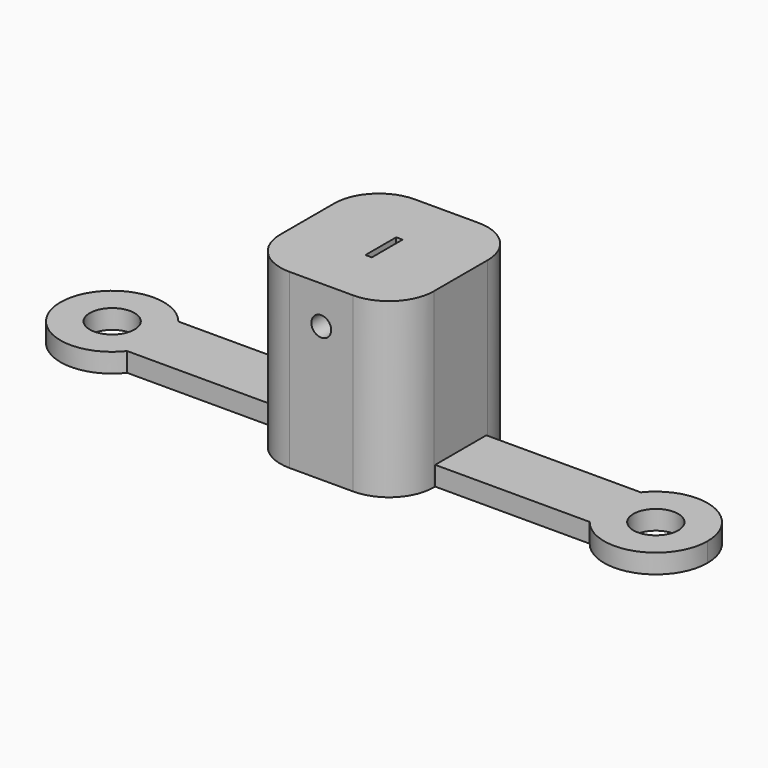
from build123d import *

# Parameters (mm, degrees)
F1_DEPTH  = 3
F3_D      = 7
F4_W      = 24
F4_H      = 24.5219291974
F5_DEPTH  = 27
F6_R      = 1.55
F7_DEPTH  = 12.5
F8_R      = 1.75
F9_DEPTH  = 12
F10_R     = 4
F11_DEPTH = 3.4
F12_R     = 7
F13_R     = 7
F14_R     = 7
F15_R     = 7
F16_W     = 1
F16_H     = 6
F17_DEPTH = 14
F18_R     = 5
F19_DEPTH = 15
F20_R     = 3
F20_R_2   = 1.55
F21_DEPTH = 3


with BuildPart() as f1:
    # F0 (on Top) → F1 (new body)
    with BuildSketch(Plane.XY):
        with BuildLine():
            Line((42.5, 5), (42.5, -5))
            Line((42.5, -5), (36.1522351233, -5))
            ThreePointArc((36.1522351233, -5), (45.1458596679, -7.635020992), (50.5804776424, 0))
            ThreePointArc((50.5804776424, 0), (45.1458596679, 7.635020992), (36.1522351233, 5))
            Line((36.1522351233, 5), (42.5, 5))
        make_face()
        with BuildLine():
            ThreePointArc((-36.1522351233, 5), (-50.5804776424, 0), (-36.1522351233, -5))
            Line((-36.1522351233, -5), (-42.5, -5))
            Line((-42.5, -5), (-42.5, 5))
            Line((-42.5, 5), (-36.1522351233, 5))
        make_face()
        with BuildLine():
            Line((36.1522351233, -5), (42.5, -5))
            Line((42.5, -5), (42.5, 5))
            Line((42.5, 5), (36.1522351233, 5))
            ThreePointArc((36.1522351233, 5), (34.4195223576, 0), (36.1522351233, -5))
        make_face()
        with BuildLine():
            Line((-36.1522351233, -5), (36.1522351233, -5))
            ThreePointArc((36.1522351233, -5), (34.4195223576, 0), (36.1522351233, 5))
            Line((36.1522351233, 5), (-36.1522351233, 5))
            ThreePointArc((-36.1522351233, 5), (-34.864979008, 2.6458596679), (-34.4195223576, 0))
            ThreePointArc((-34.4195223576, 0), (-34.864979008, -2.6458596679), (-36.1522351233, -5))
        make_face()
        with BuildLine():
            Line((-42.5, -5), (-36.1522351233, -5))
            ThreePointArc((-36.1522351233, -5), (-34.864979008, -2.6458596679), (-34.4195223576, 0))
            ThreePointArc((-34.4195223576, 0), (-34.864979008, 2.6458596679), (-36.1522351233, 5))
            Line((-36.1522351233, 5), (-42.5, 5))
            Line((-42.5, 5), (-42.5, -5))
        make_face()
    extrude(amount=F1_DEPTH)

    # F3 (through all)
    with Locations(Plane.XY.offset(3)):
        with Locations((-42.5, 0), (42.5, 0)):
            Hole(F3_D / 2)

    # F4 (on Top) → F5 (join)
    with BuildSketch(Plane.XY):
        Rectangle(F4_W, F4_H)
    extrude(amount=F5_DEPTH)

    # F6 (on Front) → F7 (cut, symmetric)
    with BuildSketch(Plane.XZ):
        with Locations((0, 21.0996698588)):
            Circle(F6_R)
    extrude(amount=F7_DEPTH, both=True, mode=Mode.SUBTRACT)

    # F8 (on face) → F9 (cut)
    with BuildSketch(Plane(origin=(-12, 0, 0), x_dir=(0, -1, 0), z_dir=(-1, 0, 0))):
        with Locations((0, 21.061129868)):
            Circle(F8_R)
    extrude(amount=-F9_DEPTH, mode=Mode.SUBTRACT)

    # F10 (on face) → F11 (cut)
    with BuildSketch(Plane(origin=(-12, 0, 0), x_dir=(0, -1, 0), z_dir=(-1, 0, 0))):
        with Locations((0, 21.061129868)):
            Circle(F10_R)
    extrude(amount=-F11_DEPTH, mode=Mode.SUBTRACT)

    # F12
    f12_edges = [f1.edges().sort_by_distance(p)[0] for p in [
        (-12, 12.260965, 13.5),
    ]]
    fillet(f12_edges, radius=F12_R)

    # F13
    f13_edges = [f1.edges().sort_by_distance(p)[0] for p in [
        (12, 12.260965, 13.5),
    ]]
    fillet(f13_edges, radius=F13_R)

    # F14
    f14_edges = [f1.edges().sort_by_distance(p)[0] for p in [
        (-12, -12.260965, 13.5),
    ]]
    fillet(f14_edges, radius=F14_R)

    # F15
    f15_edges = [f1.edges().sort_by_distance(p)[0] for p in [
        (12, -12.260965, 13.5),
    ]]
    fillet(f15_edges, radius=F15_R)

    # F16 (on face) → F17 (cut)
    with BuildSketch(Plane.XY.offset(27)):
        Rectangle(F16_W, F16_H)
    extrude(amount=-F17_DEPTH, mode=Mode.SUBTRACT)

    # F18 (on face) → F19 (cut)
    with BuildSketch(Plane(origin=(0, 0, 0), x_dir=(1, 0, 0), z_dir=(0, 0, -1))):
        Circle(F18_R)
    extrude(amount=-F19_DEPTH, mode=Mode.SUBTRACT)

    # F20 (on face) → F21 (cut)
    with BuildSketch(Plane(origin=(0, 12.2609645987, 0), x_dir=(-1, 0, 0), z_dir=(0, 1, 0))):
        with Locations((0, 21.0996698588)):
            Circle(F20_R)
        with Locations((0, 21.0996698588)):
            Circle(F20_R_2, mode=Mode.SUBTRACT)
    extrude(amount=-F21_DEPTH, mode=Mode.SUBTRACT)


solid = f1.part
